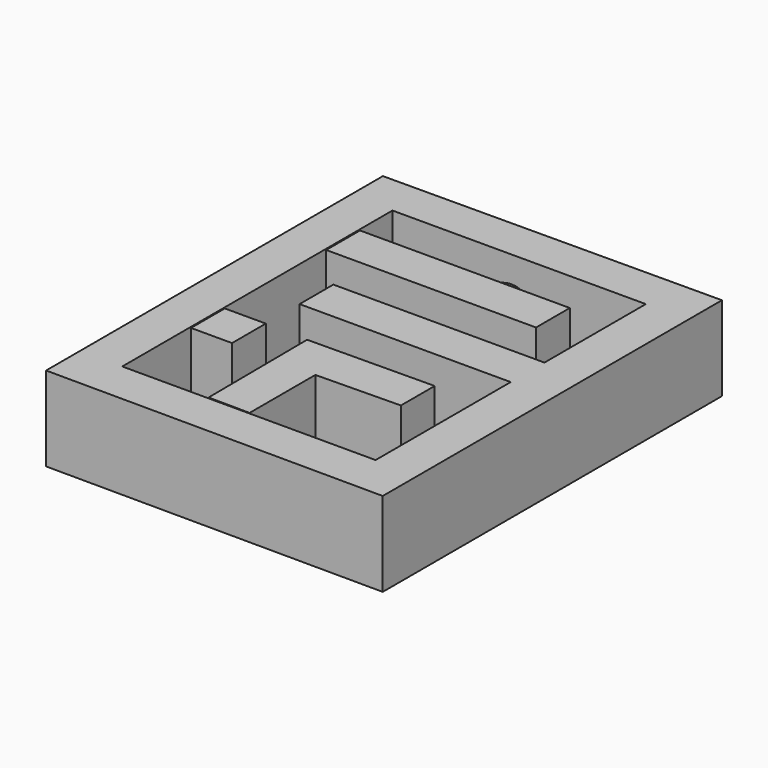
from build123d import *

# Parameters (mm, degrees)
PAD_DEPTH       = 20
SKETCH001_W     = 60
SKETCH001_H     = 80
POCKET_DEPTH    = 17
SKETCH002_W     = 49.691427
SKETCH002_H     = 10
SKETCH002_W_2   = 9.712863
PAD001_DEPTH    = 17
POCKET001_DEPTH = 5


with BuildPart() as body:
    # Sketch → Pad (new body)
    with BuildSketch(Plane.XY):
        Polygon((-39.993084, 49.65583), (40.023857, 50.007553), (40.023857, -50.409309), (-39.993084, -50.057587), align=None)
    extrude(amount=PAD_DEPTH)

    # Sketch001 (on Face6 of Pad) → Pocket (cut)
    with BuildSketch(Plane.XY.offset(20)):
        Rectangle(SKETCH001_W, SKETCH001_H)
    extrude(amount=-POCKET_DEPTH, mode=Mode.SUBTRACT)

    # Sketch002 (on Face11 of Pocket) → Pad001 (join)
    with BuildSketch(Plane.XY.offset(3)):
        with Locations((-4.845713, 25)):
            Rectangle(SKETCH002_W, SKETCH002_H)
        Polygon((30.235863, 0), (-20, 0), (-20, 10), (30, 10), align=None)
        with Locations((-24.856431, -15)):
            Rectangle(SKETCH002_W_2, SKETCH002_H)
        Polygon((-9.77195, -39.705251), (-10, -10.283183), (20, -10), (20, -20), (0, -20.32401), (0, -39.80989), align=None)
    extrude(amount=PAD001_DEPTH)

    # Sketch003 (on Face13 of Pad001) → Pocket001 (cut)
    with BuildSketch(Plane.XY.offset(3)):
        Polygon((0, -30.104781), (10, -30), (10, -40), (0, -39.690252), align=None)
    extrude(amount=-POCKET001_DEPTH, mode=Mode.SUBTRACT)


with BuildPart() as sphere:
    # Sphere → Sphere (revolve)
    with BuildSketch(Plane(origin=(0, 35, 11), x_dir=(1, 0, 0), z_dir=(0, -1, 0))):
        with BuildLine():
            ThreePointArc((0, -5.1), (5.1, 0), (0, 5.1))
            Line((0, 5.1), (0, -5.1))
        make_face()
    revolve(axis=Axis((0, 35, 11), (0, 0, 1)))


solid = Compound([body.part, sphere.part])
